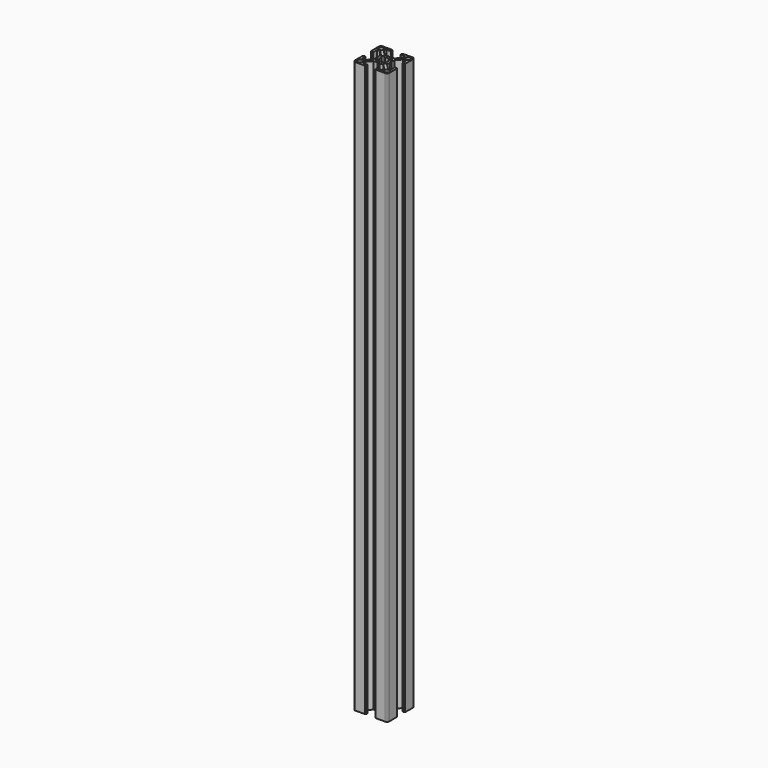
from build123d import *

# Parameters (mm, degrees)
F1_DEPTH = 500


with BuildPart() as f1:
    # F0 (on Top) → F1 (new body)
    with BuildSketch(Plane.XY):
        Polygon((12.8, -4), (12.803123, -8.25), (10.053123, -8.25), (6, -4.196877), (6, -0.919615), (5.46906, 0), (6, 0.919615), (6, 4.196877), (10.053123, 8.25), (12.803123, 8.25), (12.8, 4), (14.5, 4), (14.5, 4.5), (15, 4.5), (15, 13), (14.997986, 13.089729), (14.991948, 13.179278), (14.981899, 13.268467), (14.967859, 13.357114), (14.949856, 13.445042), (14.927926, 13.532074), (14.902113, 13.618034), (14.87247, 13.702749), (14.839056, 13.78605), (14.801938, 13.867767), (14.761191, 13.947738), (14.716898, 14.025799), (14.669147, 14.101794), (14.618034, 14.17557), (14.563663, 14.24698), (14.506143, 14.315878), (14.44559, 14.382125), (14.382125, 14.44559), (14.315878, 14.506143), (14.24698, 14.563663), (14.17557, 14.618034), (14.101794, 14.669147), (14.025799, 14.716898), (13.947738, 14.761191), (13.867767, 14.801938), (13.78605, 14.839056), (13.702749, 14.87247), (13.618034, 14.902113), (13.532074, 14.927926), (13.445042, 14.949856), (13.357114, 14.967859), (13.268467, 14.981899), (13.179278, 14.991948), (13.089729, 14.997986), (13, 15), (4.5, 15), (4.5, 14.5), (4, 14.5), (4, 12.8), (8.25, 12.803123), (8.25, 10.053123), (4.196877, 6), (0.919615, 6), (0, 5.46906), (-0.919615, 6), (-4.196877, 6), (-8.25, 10.053123), (-8.25, 12.803123), (-4, 12.8), (-4, 14.5), (-4.5, 14.5), (-4.5, 15), (-13, 15), (-13.089729, 14.997986), (-13.179278, 14.991948), (-13.268467, 14.981899), (-13.357114, 14.967859), (-13.445042, 14.949856), (-13.532074, 14.927926), (-13.618034, 14.902113), (-13.702749, 14.87247), (-13.78605, 14.839056), (-13.867767, 14.801938), (-13.947738, 14.761191), (-14.025799, 14.716898), (-14.101794, 14.669147), (-14.17557, 14.618034), (-14.24698, 14.563663), (-14.315878, 14.506143), (-14.382125, 14.44559), (-14.44559, 14.382125), (-14.506143, 14.315878), (-14.563663, 14.24698), (-14.618034, 14.17557), (-14.669147, 14.101794), (-14.716898, 14.025799), (-14.761191, 13.947738), (-14.801938, 13.867767), (-14.839056, 13.78605), (-14.87247, 13.702749), (-14.902113, 13.618034), (-14.927926, 13.532074), (-14.949856, 13.445042), (-14.967859, 13.357114), (-14.981899, 13.268467), (-14.991948, 13.179278), (-14.997986, 13.089729), (-15, 13), (-15, 4.5), (-14.5, 4), (-12.8, 4), (-12.803123, 8.25), (-10.053123, 8.25), (-6, 4.196877), (-6, 0.919615), (-5.46906, 0), (-6, -0.919615), (-6, -4.196877), (-10.053123, -8.25), (-12.803123, -8.25), (-12.8, -4), (-14.5, -4), (-14.5, -4.5), (-15, -4.5), (-15, -13), (-14.997986, -13.089729), (-14.991948, -13.179278), (-14.981899, -13.268467), (-14.967859, -13.357114), (-14.949856, -13.445042), (-14.927926, -13.532074), (-14.902113, -13.618034), (-14.87247, -13.702749), (-14.839056, -13.78605), (-14.801938, -13.867767), (-14.761191, -13.947738), (-14.716898, -14.025799), (-14.669147, -14.101794), (-14.618034, -14.17557), (-14.563663, -14.24698), (-14.506143, -14.315878), (-14.44559, -14.382125), (-14.382125, -14.44559), (-14.315878, -14.506143), (-14.24698, -14.563663), (-14.17557, -14.618034), (-14.101794, -14.669147), (-14.025799, -14.716898), (-13.947738, -14.761191), (-13.867767, -14.801938), (-13.78605, -14.839056), (-13.702749, -14.87247), (-13.618034, -14.902113), (-13.532074, -14.927926), (-13.445042, -14.949856), (-13.357114, -14.967859), (-13.268467, -14.981899), (-13.179278, -14.991948), (-13.089729, -14.997986), (-13, -15), (-4.5, -15), (-4.5, -14.5), (-4, -14.5), (-4, -12.8), (-8.25, -12.803123), (-8.25, -10.053123), (-4.196877, -6), (-0.919615, -6), (0, -5.46906), (0.919615, -6), (4.196877, -6), (8.25, -10.053123), (8.25, -12.803123), (4, -12.8), (4, -14.5), (4.5, -14.5), (4.5, -15), (13, -15), (13.089729, -14.997986), (13.179278, -14.991948), (13.268467, -14.981899), (13.357114, -14.967859), (13.445042, -14.949856), (13.532074, -14.927926), (13.618034, -14.902113), (13.702749, -14.87247), (13.78605, -14.839056), (13.867767, -14.801938), (13.947738, -14.761191), (14.025799, -14.716898), (14.101794, -14.669147), (14.17557, -14.618034), (14.24698, -14.563663), (14.315878, -14.506143), (14.382125, -14.44559), (14.44559, -14.382125), (14.506143, -14.315878), (14.563663, -14.24698), (14.618034, -14.17557), (14.669147, -14.101794), (14.716898, -14.025799), (14.761191, -13.947738), (14.801938, -13.867767), (14.839056, -13.78605), (14.87247, -13.702749), (14.902113, -13.618034), (14.927926, -13.532074), (14.949856, -13.445042), (14.967859, -13.357114), (14.981899, -13.268467), (14.991948, -13.179278), (14.997986, -13.089729), (15, -13), (15, -4.5), (14.5, -4.5), (14.5, -4), align=None)
        Polygon((-13.845974, -12.939639), (-13.848993, -12.894865), (-13.85, -12.85), (-13.85, -10.7), (-13.848993, -10.655135), (-13.845974, -10.610361), (-13.84095, -10.565766), (-13.83393, -10.521443), (-13.824928, -10.477479), (-13.813963, -10.433963), (-13.801057, -10.390983), (-13.786235, -10.348625), (-13.769527, -10.306975), (-13.750969, -10.266116), (-13.730596, -10.226131), (-13.708448, -10.1871), (-13.684573, -10.149103), (-13.659017, -10.112215), (-13.631831, -10.07651), (-13.603071, -10.042061), (-13.572795, -10.008937), (-13.541062, -9.977205), (-13.507938, -9.946929), (-13.47349, -9.918168), (-13.437785, -9.890983), (-13.400897, -9.865427), (-13.362899, -9.841551), (-13.323869, -9.819405), (-13.283884, -9.799031), (-13.243025, -9.780472), (-13.201375, -9.763765), (-13.159017, -9.748943), (-13.116036, -9.736037), (-13.072521, -9.725072), (-13.028557, -9.71607), (-12.984233, -9.70905), (-12.939639, -9.704025), (-12.894865, -9.701007), (-12.85, -9.7), (-10.7, -9.7), (-10.655135, -9.701007), (-10.610361, -9.704025), (-10.565766, -9.70905), (-10.521443, -9.71607), (-10.477479, -9.725072), (-10.433963, -9.736037), (-10.390983, -9.748943), (-10.348625, -9.763765), (-10.306975, -9.780472), (-10.266116, -9.799031), (-10.226131, -9.819405), (-10.1871, -9.841551), (-10.149103, -9.865427), (-10.112215, -9.890983), (-10.07651, -9.918168), (-10.042061, -9.946929), (-10.008937, -9.977205), (-9.977205, -10.008937), (-9.946929, -10.042061), (-9.918168, -10.07651), (-9.890983, -10.112215), (-9.865427, -10.149103), (-9.841551, -10.1871), (-9.819405, -10.226131), (-9.799031, -10.266116), (-9.780472, -10.306975), (-9.763765, -10.348625), (-9.748943, -10.390983), (-9.736037, -10.433963), (-9.725072, -10.477479), (-9.71607, -10.521443), (-9.70905, -10.565766), (-9.704025, -10.610361), (-9.701007, -10.655135), (-9.7, -10.7), (-9.7, -12.85), (-9.701007, -12.894865), (-9.704025, -12.939639), (-9.70905, -12.984233), (-9.71607, -13.028557), (-9.725072, -13.072521), (-9.736037, -13.116036), (-9.748943, -13.159017), (-9.763765, -13.201375), (-9.780472, -13.243025), (-9.799031, -13.283884), (-9.819405, -13.323869), (-9.841551, -13.362899), (-9.865427, -13.400897), (-9.890983, -13.437785), (-9.918168, -13.47349), (-9.946929, -13.507938), (-9.977205, -13.541062), (-10.008937, -13.572795), (-10.042061, -13.603071), (-10.07651, -13.631831), (-10.112215, -13.659017), (-10.149103, -13.684573), (-10.1871, -13.708448), (-10.226131, -13.730596), (-10.266116, -13.750969), (-10.306975, -13.769527), (-10.348625, -13.786235), (-10.390983, -13.801057), (-10.433963, -13.813963), (-10.477479, -13.824928), (-10.521443, -13.83393), (-10.565766, -13.84095), (-10.610361, -13.845974), (-10.655135, -13.848993), (-10.7, -13.85), (-12.85, -13.85), (-12.894865, -13.848993), (-12.939639, -13.845974), (-12.984233, -13.84095), (-13.028557, -13.83393), (-13.072521, -13.824928), (-13.116036, -13.813963), (-13.159017, -13.801057), (-13.201375, -13.786235), (-13.243025, -13.769527), (-13.283884, -13.750969), (-13.323869, -13.730596), (-13.362899, -13.708448), (-13.400897, -13.684573), (-13.437785, -13.659017), (-13.47349, -13.631831), (-13.507938, -13.603071), (-13.541062, -13.572795), (-13.572795, -13.541062), (-13.603071, -13.507938), (-13.631831, -13.47349), (-13.659017, -13.437785), (-13.684573, -13.400897), (-13.708448, -13.362899), (-13.730596, -13.323869), (-13.750969, -13.283884), (-13.769527, -13.243025), (-13.786235, -13.201375), (-13.801057, -13.159017), (-13.813963, -13.116036), (-13.824928, -13.072521), (-13.83393, -13.028557), (-13.84095, -12.984233), align=None, mode=Mode.SUBTRACT)
        Polygon((9.704025, -12.939639), (9.701007, -12.894865), (9.7, -12.85), (9.7, -10.7), (9.701007, -10.655135), (9.704025, -10.610361), (9.70905, -10.565766), (9.71607, -10.521443), (9.725072, -10.477479), (9.736037, -10.433963), (9.748943, -10.390983), (9.763765, -10.348625), (9.780472, -10.306975), (9.799031, -10.266116), (9.819405, -10.226131), (9.841551, -10.1871), (9.865427, -10.149103), (9.890983, -10.112215), (9.918168, -10.07651), (9.946929, -10.042061), (9.977205, -10.008937), (10.008937, -9.977205), (10.042061, -9.946929), (10.07651, -9.918168), (10.112215, -9.890983), (10.149103, -9.865427), (10.1871, -9.841551), (10.226131, -9.819405), (10.266116, -9.799031), (10.306975, -9.780472), (10.348625, -9.763765), (10.390983, -9.748943), (10.433963, -9.736037), (10.477479, -9.725072), (10.521443, -9.71607), (10.565766, -9.70905), (10.610361, -9.704025), (10.655135, -9.701007), (10.7, -9.7), (12.85, -9.7), (12.894865, -9.701007), (12.939639, -9.704025), (12.984233, -9.70905), (13.028557, -9.71607), (13.072521, -9.725072), (13.116036, -9.736037), (13.159017, -9.748943), (13.201375, -9.763765), (13.243025, -9.780472), (13.283884, -9.799031), (13.323869, -9.819405), (13.362899, -9.841551), (13.400897, -9.865427), (13.437785, -9.890983), (13.47349, -9.918168), (13.507938, -9.946929), (13.541062, -9.977205), (13.572795, -10.008937), (13.603071, -10.042061), (13.631831, -10.07651), (13.659017, -10.112215), (13.684573, -10.149103), (13.708448, -10.1871), (13.730596, -10.226131), (13.750969, -10.266116), (13.769527, -10.306975), (13.786235, -10.348625), (13.801057, -10.390983), (13.813963, -10.433963), (13.824928, -10.477479), (13.83393, -10.521443), (13.84095, -10.565766), (13.845974, -10.610361), (13.848993, -10.655135), (13.85, -10.7), (13.85, -12.85), (13.848993, -12.894865), (13.845974, -12.939639), (13.84095, -12.984233), (13.83393, -13.028557), (13.824928, -13.072521), (13.813963, -13.116036), (13.801057, -13.159017), (13.786235, -13.201375), (13.769527, -13.243025), (13.750969, -13.283884), (13.730596, -13.323869), (13.708448, -13.362899), (13.684573, -13.400897), (13.659017, -13.437785), (13.631831, -13.47349), (13.603071, -13.507938), (13.572795, -13.541062), (13.541062, -13.572795), (13.507938, -13.603071), (13.47349, -13.631831), (13.437785, -13.659017), (13.400897, -13.684573), (13.362899, -13.708448), (13.323869, -13.730596), (13.283884, -13.750969), (13.243025, -13.769527), (13.201375, -13.786235), (13.159017, -13.801057), (13.116036, -13.813963), (13.072521, -13.824928), (13.028557, -13.83393), (12.984233, -13.84095), (12.939639, -13.845974), (12.894865, -13.848993), (12.85, -13.85), (10.7, -13.85), (10.655135, -13.848993), (10.610361, -13.845974), (10.565766, -13.84095), (10.521443, -13.83393), (10.477479, -13.824928), (10.433963, -13.813963), (10.390983, -13.801057), (10.348625, -13.786235), (10.306975, -13.769527), (10.266116, -13.750969), (10.226131, -13.730596), (10.1871, -13.708448), (10.149103, -13.684573), (10.112215, -13.659017), (10.07651, -13.631831), (10.042061, -13.603071), (10.008937, -13.572795), (9.977205, -13.541062), (9.946929, -13.507938), (9.918168, -13.47349), (9.890983, -13.437785), (9.865427, -13.400897), (9.841551, -13.362899), (9.819405, -13.323869), (9.799031, -13.283884), (9.780472, -13.243025), (9.763765, -13.201375), (9.748943, -13.159017), (9.736037, -13.116036), (9.725072, -13.072521), (9.71607, -13.028557), (9.70905, -12.984233), align=None, mode=Mode.SUBTRACT)
        Polygon((-13.845974, 10.610361), (-13.848993, 10.655135), (-13.85, 10.7), (-13.85, 12.85), (-13.848993, 12.894865), (-13.845974, 12.939639), (-13.84095, 12.984233), (-13.83393, 13.028557), (-13.824928, 13.072521), (-13.813963, 13.116036), (-13.801057, 13.159017), (-13.786235, 13.201375), (-13.769527, 13.243025), (-13.750969, 13.283884), (-13.730596, 13.323869), (-13.708448, 13.362899), (-13.684573, 13.400897), (-13.659017, 13.437785), (-13.631831, 13.47349), (-13.603071, 13.507938), (-13.572795, 13.541062), (-13.541062, 13.572795), (-13.507938, 13.603071), (-13.47349, 13.631831), (-13.437785, 13.659017), (-13.400897, 13.684573), (-13.362899, 13.708448), (-13.323869, 13.730596), (-13.283884, 13.750969), (-13.243025, 13.769527), (-13.201375, 13.786235), (-13.159017, 13.801057), (-13.116036, 13.813963), (-13.072521, 13.824928), (-13.028557, 13.83393), (-12.984233, 13.84095), (-12.939639, 13.845974), (-12.894865, 13.848993), (-12.85, 13.85), (-10.7, 13.85), (-10.655135, 13.848993), (-10.610361, 13.845974), (-10.565766, 13.84095), (-10.521443, 13.83393), (-10.477479, 13.824928), (-10.433963, 13.813963), (-10.390983, 13.801057), (-10.348625, 13.786235), (-10.306975, 13.769527), (-10.266116, 13.750969), (-10.226131, 13.730596), (-10.1871, 13.708448), (-10.149103, 13.684573), (-10.112215, 13.659017), (-10.07651, 13.631831), (-10.042061, 13.603071), (-10.008937, 13.572795), (-9.977205, 13.541062), (-9.946929, 13.507938), (-9.918168, 13.47349), (-9.890983, 13.437785), (-9.865427, 13.400897), (-9.841551, 13.362899), (-9.819405, 13.323869), (-9.799031, 13.283884), (-9.780472, 13.243025), (-9.763765, 13.201375), (-9.748943, 13.159017), (-9.736037, 13.116036), (-9.725072, 13.072521), (-9.71607, 13.028557), (-9.70905, 12.984233), (-9.704025, 12.939639), (-9.701007, 12.894865), (-9.7, 12.85), (-9.7, 10.7), (-9.701007, 10.655135), (-9.704025, 10.610361), (-9.70905, 10.565766), (-9.71607, 10.521443), (-9.725072, 10.477479), (-9.736037, 10.433963), (-9.748943, 10.390983), (-9.763765, 10.348625), (-9.780472, 10.306975), (-9.799031, 10.266116), (-9.819405, 10.226131), (-9.841551, 10.1871), (-9.865427, 10.149103), (-9.890983, 10.112215), (-9.918168, 10.07651), (-9.946929, 10.042061), (-9.977205, 10.008937), (-10.008937, 9.977205), (-10.042061, 9.946929), (-10.07651, 9.918168), (-10.112215, 9.890983), (-10.149103, 9.865427), (-10.1871, 9.841551), (-10.226131, 9.819405), (-10.266116, 9.799031), (-10.306975, 9.780472), (-10.348625, 9.763765), (-10.390983, 9.748943), (-10.433963, 9.736037), (-10.477479, 9.725072), (-10.521443, 9.71607), (-10.565766, 9.70905), (-10.610361, 9.704025), (-10.655135, 9.701007), (-10.7, 9.7), (-12.85, 9.7), (-12.894865, 9.701007), (-12.939639, 9.704025), (-12.984233, 9.70905), (-13.028557, 9.71607), (-13.072521, 9.725072), (-13.116036, 9.736037), (-13.159017, 9.748943), (-13.201375, 9.763765), (-13.243025, 9.780472), (-13.283884, 9.799031), (-13.323869, 9.819405), (-13.362899, 9.841551), (-13.400897, 9.865427), (-13.437785, 9.890983), (-13.47349, 9.918168), (-13.507938, 9.946929), (-13.541062, 9.977205), (-13.572795, 10.008937), (-13.603071, 10.042061), (-13.631831, 10.07651), (-13.659017, 10.112215), (-13.684573, 10.149103), (-13.708448, 10.1871), (-13.730596, 10.226131), (-13.750969, 10.266116), (-13.769527, 10.306975), (-13.786235, 10.348625), (-13.801057, 10.390983), (-13.813963, 10.433963), (-13.824928, 10.477479), (-13.83393, 10.521443), (-13.84095, 10.565766), align=None, mode=Mode.SUBTRACT)
        Polygon((-3.623419, -0.439702), (-3.640423, -0.264232), (-3.648936, -0.088146), (-3.648936, 0.088146), (-3.640423, 0.264232), (-3.623419, 0.439702), (-3.597961, 0.614146), (-3.564111, 0.787157), (-3.521945, 0.958332), (-3.471564, 1.127272), (-3.413085, 1.293582), (-3.346643, 1.456874), (-3.272394, 1.616767), (-4.531372, 3.117158), (-4.362428, 3.349511), (-4.181583, 3.572725), (-3.98933, 3.786192), (-3.786192, 3.98933), (-3.572725, 4.181583), (-3.349511, 4.362428), (-3.117158, 4.531372), (-1.616767, 3.272394), (-1.456874, 3.346643), (-1.293582, 3.413085), (-1.127272, 3.471564), (-0.958332, 3.521945), (-0.787157, 3.564111), (-0.614146, 3.597961), (-0.439702, 3.623419), (-0.264232, 3.640423), (-0.088146, 3.648936), (0.088146, 3.648936), (0.264232, 3.640423), (0.439702, 3.623419), (0.614146, 3.597961), (0.787157, 3.564111), (0.958332, 3.521945), (1.127272, 3.471564), (1.293582, 3.413085), (1.456874, 3.346643), (1.616767, 3.272394), (3.117158, 4.531372), (3.349511, 4.362428), (3.572725, 4.181583), (3.786192, 3.98933), (3.98933, 3.786192), (4.181583, 3.572725), (4.362428, 3.349511), (4.531372, 3.117158), (3.272394, 1.616767), (3.346643, 1.456874), (3.413085, 1.293582), (3.471564, 1.127272), (3.521945, 0.958332), (3.564111, 0.787157), (3.597961, 0.614146), (3.623419, 0.439702), (3.640423, 0.264232), (3.648936, 0.088146), (3.648936, -0.088146), (3.640423, -0.264232), (3.623419, -0.439702), (3.597961, -0.614146), (3.564111, -0.787157), (3.521945, -0.958332), (3.471564, -1.127272), (3.413085, -1.293582), (3.346643, -1.456874), (3.272394, -1.616767), (4.531372, -3.117158), (4.362428, -3.349511), (4.181583, -3.572725), (3.98933, -3.786192), (3.786192, -3.98933), (3.572725, -4.181583), (3.349511, -4.362428), (3.117158, -4.531372), (1.616767, -3.272394), (1.456874, -3.346643), (1.293582, -3.413085), (1.127272, -3.471564), (0.958332, -3.521945), (0.787157, -3.564111), (0.614146, -3.597961), (0.439702, -3.623419), (0.264232, -3.640423), (0.088146, -3.648936), (-0.088146, -3.648936), (-0.264232, -3.640423), (-0.439702, -3.623419), (-0.614146, -3.597961), (-0.787157, -3.564111), (-0.958332, -3.521945), (-1.127272, -3.471564), (-1.293582, -3.413085), (-1.456874, -3.346643), (-1.616767, -3.272394), (-3.117158, -4.531372), (-3.349511, -4.362428), (-3.572725, -4.181583), (-3.786192, -3.98933), (-3.98933, -3.786192), (-4.181583, -3.572725), (-4.362428, -3.349511), (-4.531372, -3.117158), (-3.272394, -1.616767), (-3.346643, -1.456874), (-3.413085, -1.293582), (-3.471564, -1.127272), (-3.521945, -0.958332), (-3.564111, -0.787157), (-3.597961, -0.614146), align=None, mode=Mode.SUBTRACT)
        Polygon((9.704025, 10.610361), (9.701007, 10.655135), (9.7, 10.7), (9.7, 12.85), (9.701007, 12.894865), (9.704025, 12.939639), (9.70905, 12.984233), (9.71607, 13.028557), (9.725072, 13.072521), (9.736037, 13.116036), (9.748943, 13.159017), (9.763765, 13.201375), (9.780472, 13.243025), (9.799031, 13.283884), (9.819405, 13.323869), (9.841551, 13.362899), (9.865427, 13.400897), (9.890983, 13.437785), (9.918168, 13.47349), (9.946929, 13.507938), (9.977205, 13.541062), (10.008937, 13.572795), (10.042061, 13.603071), (10.07651, 13.631831), (10.112215, 13.659017), (10.149103, 13.684573), (10.1871, 13.708448), (10.226131, 13.730596), (10.266116, 13.750969), (10.306975, 13.769527), (10.348625, 13.786235), (10.390983, 13.801057), (10.433963, 13.813963), (10.477479, 13.824928), (10.521443, 13.83393), (10.565766, 13.84095), (10.610361, 13.845974), (10.655135, 13.848993), (10.7, 13.85), (12.85, 13.85), (12.894865, 13.848993), (12.939639, 13.845974), (12.984233, 13.84095), (13.028557, 13.83393), (13.072521, 13.824928), (13.116036, 13.813963), (13.159017, 13.801057), (13.201375, 13.786235), (13.243025, 13.769527), (13.283884, 13.750969), (13.323869, 13.730596), (13.362899, 13.708448), (13.400897, 13.684573), (13.437785, 13.659017), (13.47349, 13.631831), (13.507938, 13.603071), (13.541062, 13.572795), (13.572795, 13.541062), (13.603071, 13.507938), (13.631831, 13.47349), (13.659017, 13.437785), (13.684573, 13.400897), (13.708448, 13.362899), (13.730596, 13.323869), (13.750969, 13.283884), (13.769527, 13.243025), (13.786235, 13.201375), (13.801057, 13.159017), (13.813963, 13.116036), (13.824928, 13.072521), (13.83393, 13.028557), (13.84095, 12.984233), (13.845974, 12.939639), (13.848993, 12.894865), (13.85, 12.85), (13.85, 10.7), (13.848993, 10.655135), (13.845974, 10.610361), (13.84095, 10.565766), (13.83393, 10.521443), (13.824928, 10.477479), (13.813963, 10.433963), (13.801057, 10.390983), (13.786235, 10.348625), (13.769527, 10.306975), (13.750969, 10.266116), (13.730596, 10.226131), (13.708448, 10.1871), (13.684573, 10.149103), (13.659017, 10.112215), (13.631831, 10.07651), (13.603071, 10.042061), (13.572795, 10.008937), (13.541062, 9.977205), (13.507938, 9.946929), (13.47349, 9.918168), (13.437785, 9.890983), (13.400897, 9.865427), (13.362899, 9.841551), (13.323869, 9.819405), (13.283884, 9.799031), (13.243025, 9.780472), (13.201375, 9.763765), (13.159017, 9.748943), (13.116036, 9.736037), (13.072521, 9.725072), (13.028557, 9.71607), (12.984233, 9.70905), (12.939639, 9.704025), (12.894865, 9.701007), (12.85, 9.7), (10.7, 9.7), (10.655135, 9.701007), (10.610361, 9.704025), (10.565766, 9.70905), (10.521443, 9.71607), (10.477479, 9.725072), (10.433963, 9.736037), (10.390983, 9.748943), (10.348625, 9.763765), (10.306975, 9.780472), (10.266116, 9.799031), (10.226131, 9.819405), (10.1871, 9.841551), (10.149103, 9.865427), (10.112215, 9.890983), (10.07651, 9.918168), (10.042061, 9.946929), (10.008937, 9.977205), (9.977205, 10.008937), (9.946929, 10.042061), (9.918168, 10.07651), (9.890983, 10.112215), (9.865427, 10.149103), (9.841551, 10.1871), (9.819405, 10.226131), (9.799031, 10.266116), (9.780472, 10.306975), (9.763765, 10.348625), (9.748943, 10.390983), (9.736037, 10.433963), (9.725072, 10.477479), (9.71607, 10.521443), (9.70905, 10.565766), align=None, mode=Mode.SUBTRACT)
    extrude(amount=F1_DEPTH)


solid = f1.part
